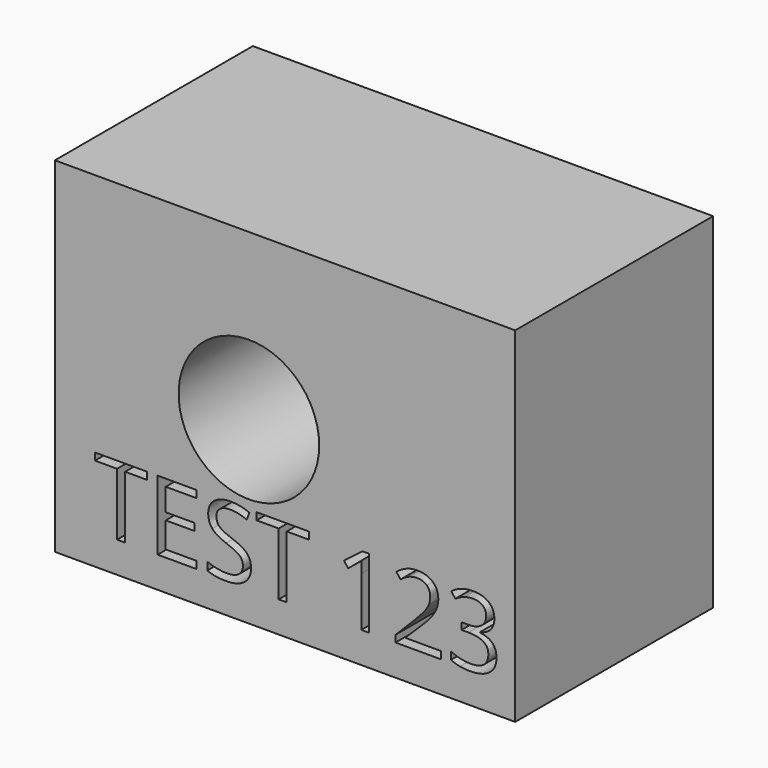
from build123d import *

# Parameters (mm, degrees)
F0_W     = 47.2641885281
F0_H     = 35.3951528668
F0_R     = 7.2186571731
F1_DEPTH = 25.4


with BuildPart() as f1:
    # F0 (on Front) → F1 (new body)
    with BuildSketch(Plane.XZ):
        with Locations((23.632094264, 17.6975764334)):
            Rectangle(F0_W, F0_H)
        Polygon((7.2078548692, 9.5862786071), (7.2078548692, 3.1792055815), (6.3774531664, 3.1792055815), (6.3774531664, 9.5862786071), (4.11456943, 9.5862786071), (4.11456943, 10.324413454), (9.4707386056, 10.324413454), (9.4707386056, 9.5862786071), align=None, mode=Mode.SUBTRACT)
        Polygon((14.5297772283, 3.9220319636), (14.5297772283, 3.1792055815), (10.5466639757, 3.1792055815), (10.5466639757, 10.324413454), (14.5297772283, 10.324413454), (14.5297772283, 9.5862786071), (11.3770656786, 9.5862786071), (11.3770656786, 7.2842987453), (14.3389881365, 7.2842987453), (14.3389881365, 6.5508554334), (11.3770656786, 6.5508554334), (11.3770656786, 3.9220319636), align=None, mode=Mode.SUBTRACT)
        with BuildLine():
            add(Edge.make_bspline(
                [(19.7217426774, 6.2724910208), (20.1439808314, 5.8127205864), (20.1439808314, 5.0808411195)],
                knots=[0, 0, 0, 1, 1, 1], degree=2))
            add(Edge.make_bspline(
                [(20.1439808314, 5.0808411195), (20.1439808314, 4.1378425756), (19.4597986374, 3.6092629606)],
                knots=[0, 0, 0, 1, 1, 1], degree=2))
            add(Edge.make_bspline(
                [(19.4597986374, 3.6092629606), (18.7756164434, 3.0806833456), (17.6027326824, 3.0806833456)],
                knots=[0, 0, 0, 1, 1, 1], degree=2))
            add(Edge.make_bspline(
                [(17.6027326824, 3.0806833456), (16.3328905304, 3.0806833456), (15.6479264139, 3.4090907987)],
                knots=[0, 0, 0, 1, 1, 1], degree=2))
            Line((15.6479264139, 3.4090907987), (15.6479264139, 4.2097794463))
            add(Edge.make_bspline(
                [(15.6479264139, 4.2097794463), (16.0889307081, 4.0252457345), (16.606563408, 3.9173404285)],
                knots=[0, 0, 0, 1, 1, 1], degree=2))
            add(Edge.make_bspline(
                [(16.606563408, 3.9173404285), (17.1241961078, 3.8094351225), (17.6324457376, 3.8094351225)],
                knots=[0, 0, 0, 1, 1, 1], degree=2))
            add(Edge.make_bspline(
                [(17.6324457376, 3.8094351225), (18.4628474405, 3.8094351225), (18.8835217495, 4.124549893)],
                knots=[0, 0, 0, 1, 1, 1], degree=2))
            add(Edge.make_bspline(
                [(18.8835217495, 4.124549893), (19.3041960584, 4.4396646634), (19.3041960584, 5.0026488688)],
                knots=[0, 0, 0, 1, 1, 1], degree=2))
            add(Edge.make_bspline(
                [(19.3041960584, 5.0026488688), (19.3041960584, 5.3732801373), (19.1548488595, 5.610202657)],
                knots=[0, 0, 0, 1, 1, 1], degree=2))
            add(Edge.make_bspline(
                [(19.1548488595, 5.610202657), (19.0055016606, 5.8471251767), (18.6559822998, 6.0480792611)],
                knots=[0, 0, 0, 1, 1, 1], degree=2))
            add(Edge.make_bspline(
                [(18.6559822998, 6.0480792611), (18.306462939, 6.2490333455), (17.5933496123, 6.5023762379)],
                knots=[0, 0, 0, 1, 1, 1], degree=2))
            add(Edge.make_bspline(
                [(17.5933496123, 6.5023762379), (16.5971803379, 6.8589329013), (16.1694687263, 7.3476344684)],
                knots=[0, 0, 0, 1, 1, 1], degree=2))
            add(Edge.make_bspline(
                [(16.1694687263, 7.3476344684), (15.7417571148, 7.8363360355), (15.7417571148, 8.622950078)],
                knots=[0, 0, 0, 1, 1, 1], degree=2))
            add(Edge.make_bspline(
                [(15.7417571148, 8.622950078), (15.7417571148, 9.4486602458), (16.3618216631, 9.9373618129)],
                knots=[0, 0, 0, 1, 1, 1], degree=2))
            add(Edge.make_bspline(
                [(16.3618216631, 9.9373618129), (16.9818862115, 10.42606338), (18.0046408512, 10.42606338)],
                knots=[0, 0, 0, 1, 1, 1], degree=2))
            add(Edge.make_bspline(
                [(18.0046408512, 10.42606338), (19.0696193062, 10.42606338), (19.9641386547, 10.0351021263)],
                knots=[0, 0, 0, 1, 1, 1], degree=2))
            Line((19.9641386547, 10.0351021263), (19.7045403822, 9.3126057295))
            add(Edge.make_bspline(
                [(19.7045403822, 9.3126057295), (18.8194041039, 9.683236998), (17.984310866, 9.683236998)],
                knots=[0, 0, 0, 1, 1, 1], degree=2))
            add(Edge.make_bspline(
                [(17.984310866, 9.683236998), (17.3243682697, 9.683236998), (16.9529550787, 9.4001810503)],
                knots=[0, 0, 0, 1, 1, 1], degree=2))
            add(Edge.make_bspline(
                [(16.9529550787, 9.4001810503), (16.5815418877, 9.1171251026), (16.5815418877, 8.6135670079)],
                knots=[0, 0, 0, 1, 1, 1], degree=2))
            add(Edge.make_bspline(
                [(16.5815418877, 8.6135670079), (16.5815418877, 8.2429357394), (16.7183783265, 8.0052312971)],
                knots=[0, 0, 0, 1, 1, 1], degree=2))
            add(Edge.make_bspline(
                [(16.7183783265, 8.0052312971), (16.8552147653, 7.7675268549), (17.1804945284, 7.5697004605)],
                knots=[0, 0, 0, 1, 1, 1], degree=2))
            add(Edge.make_bspline(
                [(17.1804945284, 7.5697004605), (17.5057742914, 7.3718740661), (18.1750999578, 7.1326057789)],
                knots=[0, 0, 0, 1, 1, 1], degree=2))
            add(Edge.make_bspline(
                [(18.1750999578, 7.1326057789), (19.2995045234, 6.7322614551), (19.7217426774, 6.2724910208)],
                knots=[0, 0, 0, 1, 1, 1], degree=2))
        make_face(mode=Mode.SUBTRACT)
        Polygon((23.8049420109, 9.5862786071), (23.8049420109, 3.1792055815), (22.9745403081, 3.1792055815), (22.9745403081, 9.5862786071), (20.7116565717, 9.5862786071), (20.7116565717, 10.324413454), (26.0678257473, 10.324413454), (26.0678257473, 9.5862786071), align=None, mode=Mode.SUBTRACT)
        with BuildLine():
            Line((32.2559604707, 10.324413454), (32.2559604707, 3.1792055815))
            Line((32.2559604707, 3.1792055815), (31.4646548933, 3.1792055815))
            Line((31.4646548933, 3.1792055815), (31.4646548933, 8.2710849496))
            add(Edge.make_bspline(
                [(31.4646548933, 8.2710849496), (31.4646548933, 8.9075698706), (31.5037510186, 9.473681766)],
                knots=[0, 0, 0, 1, 1, 1], degree=2))
            add(Edge.make_bspline(
                [(31.5037510186, 9.473681766), (31.4021010927, 9.370467995), (31.274647724, 9.2586530765)],
                knots=[0, 0, 0, 1, 1, 1], degree=2))
            add(Edge.make_bspline(
                [(31.274647724, 9.2586530765), (31.1471943553, 9.1468381579), (30.1119289555, 8.30548954)],
                knots=[0, 0, 0, 1, 1, 1], degree=2))
            Line((30.1119289555, 8.30548954), (29.6818715764, 8.8622183652))
            Line((29.6818715764, 8.8622183652), (31.5725601993, 10.324413454))
            Line((31.5725601993, 10.324413454), (32.2559604707, 10.324413454))
        make_face(mode=Mode.SUBTRACT)
        with BuildLine():
            Line((39.6701496858, 3.9314150336), (39.6701496858, 3.1792055815))
            Line((39.6701496858, 3.1792055815), (34.9739231064, 3.1792055815))
            Line((34.9739231064, 3.1792055815), (34.9739231064, 3.8782443031))
            Line((34.9739231064, 3.8782443031), (36.8552286592, 5.768932926))
            add(Edge.make_bspline(
                [(36.8552286592, 5.768932926), (37.7153434173, 6.6399945992), (37.9890162949, 7.0114077902)],
                knots=[0, 0, 0, 1, 1, 1], degree=2))
            add(Edge.make_bspline(
                [(37.9890162949, 7.0114077902), (38.2626891725, 7.3828209812), (38.3995256113, 7.7346861096)],
                knots=[0, 0, 0, 1, 1, 1], degree=2))
            add(Edge.make_bspline(
                [(38.3995256113, 7.7346861096), (38.5363620501, 8.0865512379), (38.5363620501, 8.4915870967)],
                knots=[0, 0, 0, 1, 1, 1], degree=2))
            add(Edge.make_bspline(
                [(38.5363620501, 8.4915870967), (38.5363620501, 9.0639543721), (38.1891884568, 9.3986172053)],
                knots=[0, 0, 0, 1, 1, 1], degree=2))
            add(Edge.make_bspline(
                [(38.1891884568, 9.3986172053), (37.8420148635, 9.7332800384), (37.2258599277, 9.7332800384)],
                knots=[0, 0, 0, 1, 1, 1], degree=2))
            add(Edge.make_bspline(
                [(37.2258599277, 9.7332800384), (36.7817279435, 9.7332800384), (36.3829474647, 9.5862786071)],
                knots=[0, 0, 0, 1, 1, 1], degree=2))
            add(Edge.make_bspline(
                [(36.3829474647, 9.5862786071), (35.984166986, 9.4392771757), (35.4962473413, 9.053007457)],
                knots=[0, 0, 0, 1, 1, 1], degree=2))
            Line((35.4962473413, 9.053007457), (35.0661899623, 9.6050447472))
            add(Edge.make_bspline(
                [(35.0661899623, 9.6050447472), (36.0529761666, 10.42606338), (37.2164768576, 10.42606338)],
                knots=[0, 0, 0, 1, 1, 1], degree=2))
            add(Edge.make_bspline(
                [(37.2164768576, 10.42606338), (38.2235930471, 10.42606338), (38.7951784, 9.9107764476)],
                knots=[0, 0, 0, 1, 1, 1], degree=2))
            add(Edge.make_bspline(
                [(38.7951784, 9.9107764476), (39.3667637529, 9.3954895153), (39.3667637529, 8.525991687)],
                knots=[0, 0, 0, 1, 1, 1], degree=2))
            add(Edge.make_bspline(
                [(39.3667637529, 8.525991687), (39.3667637529, 7.8457191056), (38.9851855693, 7.1810849743)],
                knots=[0, 0, 0, 1, 1, 1], degree=2))
            add(Edge.make_bspline(
                [(38.9851855693, 7.1810849743), (38.6036073857, 6.5164508431), (37.5589589158, 5.4999515835)],
                knots=[0, 0, 0, 1, 1, 1], degree=2))
            Line((37.5589589158, 5.4999515835), (35.9951139011, 3.970511159))
            Line((35.9951139011, 3.970511159), (35.9951139011, 3.9314150336))
            Line((35.9951139011, 3.9314150336), (39.6701496858, 3.9314150336))
        make_face(mode=Mode.SUBTRACT)
        with BuildLine():
            add(Edge.make_bspline(
                [(44.5462184418, 9.949872573), (45.1232772523, 9.473681766), (45.1232772523, 8.6432800631)],
                knots=[0, 0, 0, 1, 1, 1], degree=2))
            add(Edge.make_bspline(
                [(45.1232772523, 8.6432800631), (45.1232772523, 7.9583159467), (44.7393533011, 7.5235670326)],
                knots=[0, 0, 0, 1, 1, 1], degree=2))
            add(Edge.make_bspline(
                [(44.7393533011, 7.5235670326), (44.35542935, 7.0888181185), (43.6516990934, 6.9418166871)],
                knots=[0, 0, 0, 1, 1, 1], degree=2))
            Line((43.6516990934, 6.9418166871), (43.6516990934, 6.9027205617))
            add(Edge.make_bspline(
                [(43.6516990934, 6.9027205617), (44.5118138515, 6.7963791007), (44.9270147029, 6.356156729)],
                knots=[0, 0, 0, 1, 1, 1], degree=2))
            add(Edge.make_bspline(
                [(44.9270147029, 6.356156729), (45.3422155543, 5.9159343574), (45.3422155543, 5.2028210307)],
                knots=[0, 0, 0, 1, 1, 1], degree=2))
            add(Edge.make_bspline(
                [(45.3422155543, 5.2028210307), (45.3422155543, 4.181630236), (44.6337937626, 3.6311567908)],
                knots=[0, 0, 0, 1, 1, 1], degree=2))
            add(Edge.make_bspline(
                [(44.6337937626, 3.6311567908), (43.9253719709, 3.0806833456), (42.6211252286, 3.0806833456)],
                knots=[0, 0, 0, 1, 1, 1], degree=2))
            add(Edge.make_bspline(
                [(42.6211252286, 3.0806833456), (42.0534494883, 3.0806833456), (41.5819502163, 3.1666948214)],
                knots=[0, 0, 0, 1, 1, 1], degree=2))
            add(Edge.make_bspline(
                [(41.5819502163, 3.1666948214), (41.1104509444, 3.2527062972), (40.6663189602, 3.4669530643)],
                knots=[0, 0, 0, 1, 1, 1], degree=2))
            Line((40.6663189602, 3.4669530643), (40.6663189602, 4.2394925016))
            add(Edge.make_bspline(
                [(40.6663189602, 4.2394925016), (41.1307809296, 4.0096072844), (41.6562328545, 3.8899731408)],
                knots=[0, 0, 0, 1, 1, 1], degree=2))
            add(Edge.make_bspline(
                [(41.6562328545, 3.8899731408), (42.1816847795, 3.7703389971), (42.6508382839, 3.7703389971)],
                knots=[0, 0, 0, 1, 1, 1], degree=2))
            add(Edge.make_bspline(
                [(42.6508382839, 3.7703389971), (44.5024307814, 3.7703389971), (44.5024307814, 5.2215871708)],
                knots=[0, 0, 0, 1, 1, 1], degree=2))
            add(Edge.make_bspline(
                [(44.5024307814, 5.2215871708), (44.5024307814, 6.5227062231), (42.4600491921, 6.5227062231)],
                knots=[0, 0, 0, 1, 1, 1], degree=2))
            Line((42.4600491921, 6.5227062231), (41.7563189355, 6.5227062231))
            Line((41.7563189355, 6.5227062231), (41.7563189355, 7.2201810997))
            Line((41.7563189355, 7.2201810997), (42.4694322622, 7.2201810997))
            add(Edge.make_bspline(
                [(42.4694322622, 7.2201810997), (43.3045255001, 7.2201810997), (43.7932270672, 7.5892485232)],
                knots=[0, 0, 0, 1, 1, 1], degree=2))
            add(Edge.make_bspline(
                [(43.7932270672, 7.5892485232), (44.2819286343, 7.9583159467), (44.2819286343, 8.6135670079)],
                knots=[0, 0, 0, 1, 1, 1], degree=2))
            add(Edge.make_bspline(
                [(44.2819286343, 8.6135670079), (44.2819286343, 9.1358912428), (43.9230262034, 9.4345856406)],
                knots=[0, 0, 0, 1, 1, 1], degree=2))
            add(Edge.make_bspline(
                [(43.9230262034, 9.4345856406), (43.5641237725, 9.7332800384), (42.9479688367, 9.7332800384)],
                knots=[0, 0, 0, 1, 1, 1], degree=2))
            add(Edge.make_bspline(
                [(42.9479688367, 9.7332800384), (42.4788153323, 9.7332800384), (42.0636144809, 9.6058266697)],
                knots=[0, 0, 0, 1, 1, 1], degree=2))
            add(Edge.make_bspline(
                [(42.0636144809, 9.6058266697), (41.6484136294, 9.478373301), (41.1151424794, 9.1358912428)],
                knots=[0, 0, 0, 1, 1, 1], degree=2))
            Line((41.1151424794, 9.1358912428), (40.7054150855, 9.683236998))
            add(Edge.make_bspline(
                [(40.7054150855, 9.683236998), (41.1448555347, 10.0304105912), (41.7187866551, 10.2282369856)],
                knots=[0, 0, 0, 1, 1, 1], degree=2))
            add(Edge.make_bspline(
                [(41.7187866551, 10.2282369856), (42.2927177755, 10.42606338), (42.9292026965, 10.42606338)],
                knots=[0, 0, 0, 1, 1, 1], degree=2))
            add(Edge.make_bspline(
                [(42.9292026965, 10.42606338), (43.9691596314, 10.42606338), (44.5462184418, 9.949872573)],
                knots=[0, 0, 0, 1, 1, 1], degree=2))
        make_face(mode=Mode.SUBTRACT)
        with Locations((19.9230182916, 18.4393916279)):
            Circle(F0_R, mode=Mode.SUBTRACT)
    extrude(amount=F1_DEPTH)


solid = f1.part
